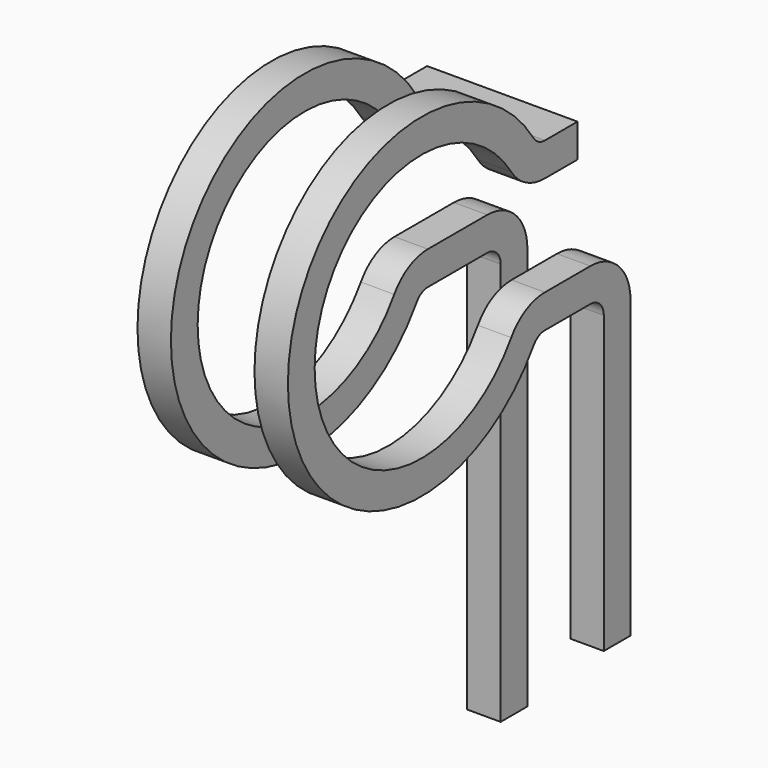
from build123d import *

# Parameters (mm, degrees)
F1_DEPTH = 2
F2_W     = 2
F2_H     = 2
F3_DEPTH = 5
F5_DEPTH = 2


with BuildPart() as f1:
    # F0 (on Right) → F1 (new body)
    with BuildSketch(Plane.YZ):
        with BuildLine():
            ThreePointArc((9.219544, 5), (8.742813, 5.120951), (8.381404, 5.454545))
            ThreePointArc((8.381404, 5.454545), (-10, 0), (8.381404, -5.454545))
            ThreePointArc((8.381404, -5.454545), (8.742813, -5.120951), (9.219544, -5))
            Line((9.219544, -5), (13.660254, -5))
            ThreePointArc((13.660254, -5), (14.367361, -5.292893), (14.660254, -6))
            Line((14.660254, -6), (14.660254, -30.115784))
            Line((14.660254, -30.115784), (16.660254, -30.115784))
            Line((16.660254, -30.115784), (16.660254, -6))
            ThreePointArc((16.660254, -6), (15.781575, -3.878679), (13.660254, -3))
            Line((13.660254, -3), (9.219544, -3))
            ThreePointArc((9.219544, -3), (7.78935, -3.362852), (6.705123, -4.363636))
            ThreePointArc((6.705123, -4.363636), (-8, 0), (6.705123, 4.363636))
            ThreePointArc((6.705123, 4.363636), (7.78935, 3.362852), (9.219544, 3))
            Line((9.219544, 3), (11.660254, 3))
            Line((11.660254, 3), (11.660254, 5))
            Line((11.660254, 5), (9.219544, 5))
        make_face()
    extrude(amount=F1_DEPTH)

    # F2 (on face) → F3 (join)
    with BuildSketch(Plane.YZ.offset(2)):
        with Locations((10.660254, 4)):
            Rectangle(F2_W, F2_H)
    extrude(amount=F3_DEPTH)

    # F4 (on face) → F5 (join)
    with BuildSketch(Plane.YZ.offset(7)):
        with BuildLine():
            ThreePointArc((9.219544, 5), (8.742813, 5.120951), (8.381404, 5.454545))
            ThreePointArc((8.381404, 5.454545), (-10, 0), (8.381404, -5.454545))
            ThreePointArc((8.381404, -5.454545), (8.742813, -5.120951), (9.219544, -5))
            Line((9.219544, -5), (12.623615, -5))
            ThreePointArc((12.623615, -5), (13.330721, -5.292893), (13.623615, -6))
            Line((13.623615, -6), (13.623615, -23.685562))
            Line((13.623615, -23.685562), (15.623615, -23.685562))
            Line((15.623615, -23.685562), (15.623615, -6))
            ThreePointArc((15.623615, -6), (14.744935, -3.878679), (12.623615, -3))
            Line((12.623615, -3), (9.219544, -3))
            ThreePointArc((9.219544, -3), (7.78935, -3.362852), (6.705123, -4.363636))
            ThreePointArc((6.705123, -4.363636), (-8, 0), (6.705123, 4.363636))
            ThreePointArc((6.705123, 4.363636), (7.78935, 3.362852), (9.219544, 3))
            Line((9.219544, 3), (11.660254, 3))
            Line((11.660254, 3), (11.660254, 5))
            Line((11.660254, 5), (9.219544, 5))
        make_face()
    extrude(amount=F5_DEPTH)


solid = f1.part
